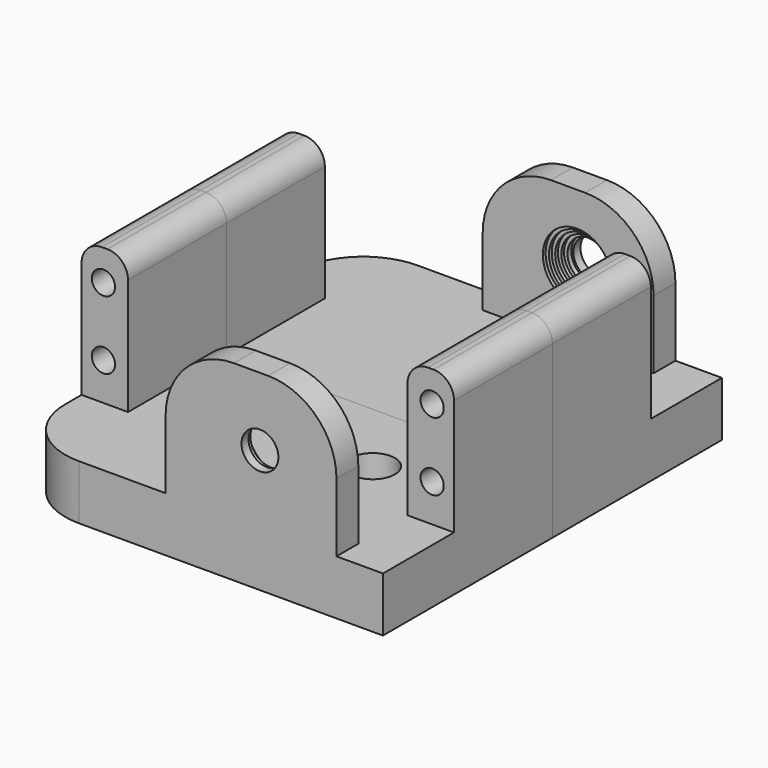
from build123d import *

# Parameters (mm, degrees)
F0_W      = 54.5
F0_H      = 8
F1_DEPTH  = 31
F2_W      = 6.8
F2_H      = 18
F2_W_2    = 25
F2_H_2    = 4
F3_DEPTH  = 20
F4_R      = 1.7
F5_DEPTH  = 28.001
F6_R      = 3.25
F6_R_2    = 1.7
F7_DEPTH  = 4
F8_R      = 1.7
F9_DEPTH  = 31.001
F10_R     = 2.7
F11_DEPTH = 4.001
F12_R     = 5
F12_R_2   = 2.7
F13_DEPTH = 0.5
F14_R     = 4.5
F14_R_2   = 2.7
F15_DEPTH = 0.5
F16_R     = 4
F16_R_2   = 2.7
F17_DEPTH = 0.5
F18_R     = 3.5
F18_R_2   = 2.7
F19_DEPTH = 0.5
F20_R     = 3
F20_R_2   = 2.7
F21_DEPTH = 0.7
F22_R     = 3
F23_R     = 10
F24_R     = 10


with BuildPart() as f1:
    # F0 (on Front) → F1 (new body)
    with BuildSketch(Plane.XZ):
        with Locations((9.91486, 15.425396)):
            Rectangle(F0_W, F0_H)
    extrude(amount=F1_DEPTH)

    # F2 (on face) → F3 (join)
    with BuildSketch(Plane.XY.offset(19.425396)):
        with Locations((33.76486, -9)):
            Rectangle(F2_W, F2_H)
        with Locations((-13.93514, -9)):
            Rectangle(F2_W, F2_H)
        with Locations((17.86486, -29)):
            Rectangle(F2_W_2, F2_H_2)
    extrude(amount=F3_DEPTH)

    # F4 (on face) → F5 (cut, through all)
    with BuildSketch(Plane(origin=(0, 0, 11.425396), x_dir=(1, 0, 0), z_dir=(0, 0, -1))):
        with Locations((19.66486, 11)):
            Circle(F4_R)
        with Locations((11.66486, 11)):
            Circle(F4_R)
        with Locations((19.66486, 23)):
            Circle(F4_R)
        with Locations((11.66486, 23)):
            Circle(F4_R)
    extrude(amount=-F5_DEPTH, mode=Mode.SUBTRACT)

    # F6 (on face) → F7 (cut)
    with BuildSketch(Plane.XY.offset(19.425396)):
        with Locations((11.66486, -11)):
            Circle(F6_R)
        with Locations((11.66486, -11)):
            Circle(F6_R_2, mode=Mode.SUBTRACT)
        with Locations((19.66486, -11)):
            Circle(F6_R)
        with Locations((19.66486, -11)):
            Circle(F6_R_2, mode=Mode.SUBTRACT)
        with Locations((19.66486, -23)):
            Circle(F6_R)
        with Locations((19.66486, -23)):
            Circle(F6_R_2, mode=Mode.SUBTRACT)
        with Locations((11.66486, -23)):
            Circle(F6_R)
        with Locations((11.66486, -23)):
            Circle(F6_R_2, mode=Mode.SUBTRACT)
    extrude(amount=-F7_DEPTH, mode=Mode.SUBTRACT)

    # F8 (on face) → F9 (cut, through all)
    with BuildSketch(Plane(origin=(0, 0, 0), x_dir=(-1, 0, 0), z_dir=(0, 1, 0))):
        with Locations((14.13514, 24.925396)):
            Circle(F8_R)
        with Locations((14.13514, 34.925396)):
            Circle(F8_R)
        with Locations((-33.96486, 24.925396)):
            Circle(F8_R)
        with Locations((-33.96486, 34.925396)):
            Circle(F8_R)
    extrude(amount=-F9_DEPTH, mode=Mode.SUBTRACT)

    # F10 (on face) → F11 (cut, through all)
    with BuildSketch(Plane(origin=(0, -27, 0), x_dir=(-1, 0, 0), z_dir=(0, 1, 0))):
        with Locations((-19.16486, 29.425396)):
            Circle(F10_R)
    extrude(amount=-F11_DEPTH, mode=Mode.SUBTRACT)

    # F12 (on face) → F13 (cut)
    with BuildSketch(Plane(origin=(0, -27, 0), x_dir=(-1, 0, 0), z_dir=(0, 1, 0))):
        with Locations((-19.16486, 29.425396)):
            Circle(F12_R)
        with Locations((-19.16486, 29.425396)):
            Circle(F12_R_2, mode=Mode.SUBTRACT)
    extrude(amount=-F13_DEPTH, mode=Mode.SUBTRACT)

    # F14 (on face) → F15 (cut)
    with BuildSketch(Plane(origin=(0, -27.5, 0), x_dir=(-1, 0, 0), z_dir=(0, 1, 0))):
        with Locations((-19.16486, 29.425396)):
            Circle(F14_R)
        with Locations((-19.16486, 29.425396)):
            Circle(F14_R_2, mode=Mode.SUBTRACT)
    extrude(amount=-F15_DEPTH, mode=Mode.SUBTRACT)

    # F16 (on face) → F17 (cut)
    with BuildSketch(Plane(origin=(0, -28, 0), x_dir=(-1, 0, 0), z_dir=(0, 1, 0))):
        with Locations((-19.16486, 29.425396)):
            Circle(F16_R)
        with Locations((-19.16486, 29.425396)):
            Circle(F16_R_2, mode=Mode.SUBTRACT)
    extrude(amount=-F17_DEPTH, mode=Mode.SUBTRACT)

    # F18 (on face) → F19 (cut)
    with BuildSketch(Plane(origin=(0, -28.5, 0), x_dir=(-1, 0, 0), z_dir=(0, 1, 0))):
        with Locations((-19.16486, 29.425396)):
            Circle(F18_R)
        with Locations((-19.16486, 29.425396)):
            Circle(F18_R_2, mode=Mode.SUBTRACT)
    extrude(amount=-F19_DEPTH, mode=Mode.SUBTRACT)

    # F20 (on face) → F21 (cut)
    with BuildSketch(Plane(origin=(0, -29, 0), x_dir=(-1, 0, 0), z_dir=(0, 1, 0))):
        with Locations((-19.16486, 29.425396)):
            Circle(F20_R)
        with Locations((-19.16486, 29.425396)):
            Circle(F20_R_2, mode=Mode.SUBTRACT)
    extrude(amount=-F21_DEPTH, mode=Mode.SUBTRACT)

    # F22
    f22_edges = [f1.edges().sort_by_distance(p)[0] for p in [
        (-17.33514, -9, 39.425396),
        (-10.53514, -9, 39.425396),
        (30.36486, -9, 39.425396),
        (37.16486, -9, 39.425396),
    ]]
    fillet(f22_edges, radius=F22_R)

    # F23
    f23_edges = [f1.edges().sort_by_distance(p)[0] for p in [
        (5.36486, -29, 39.425396),
        (30.36486, -29, 39.425396),
    ]]
    fillet(f23_edges, radius=F23_R)

    # F24
    f24_edges = [f1.edges().sort_by_distance(p)[0] for p in [
        (-17.33514, -31, 15.425396),
    ]]
    fillet(f24_edges, radius=F24_R)


with BuildPart() as f25_1:
    # F25: instance of F1
    add(f1.part.mirror(Plane.XZ))


solid = Compound([f1.part, f25_1.part])
